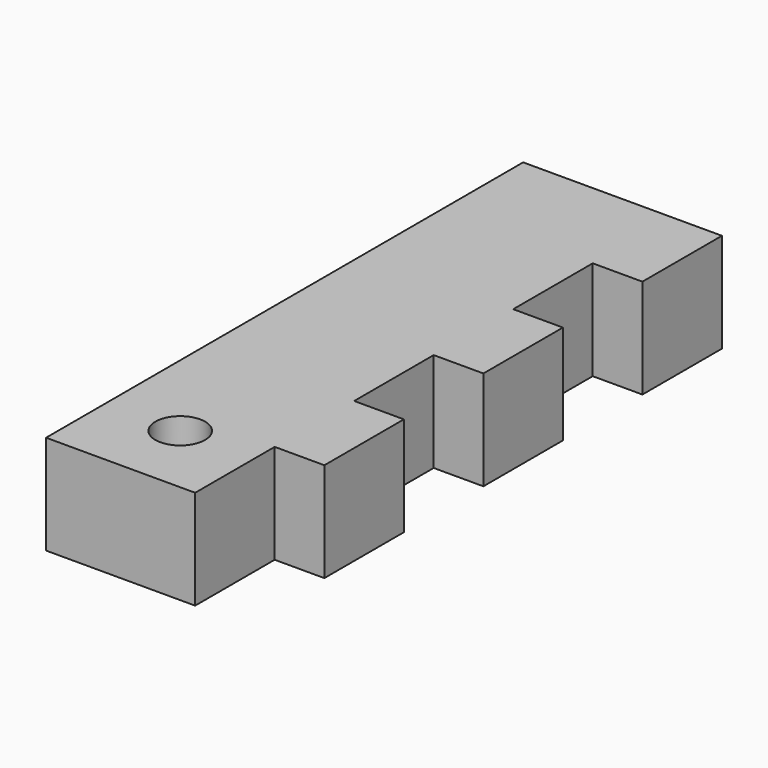
from build123d import *

# Parameters (mm, degrees)
F0_R     = 3.175
F1_DEPTH = 12.7


with BuildPart() as f1:
    # F0 (on Top) → F1 (new body)
    with BuildSketch(Plane.XY):
        Polygon((0, 76.2), (0, 0), (19.05, 0), (19.05, 12.7), (25.4, 12.7), (25.4, 25.4), (19.05, 25.4), (19.05, 38.1), (25.4, 38.1), (25.4, 50.8), (19.05, 50.8), (19.05, 63.5), (25.4, 63.5), (25.4, 76.2), (19.05, 76.2), align=None)
        with Locations((9.525, 9.525)):
            Circle(F0_R, mode=Mode.SUBTRACT)
    extrude(amount=F1_DEPTH)


solid = f1.part
